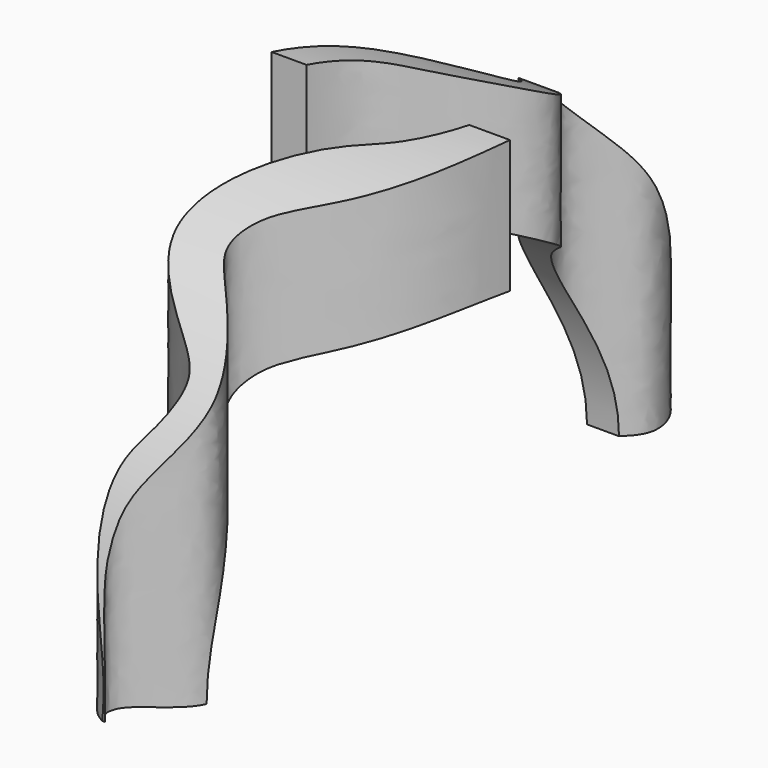
from build123d import *

# Parameters (mm, degrees)
F4_DEPTH      = 4
F4_DEPTH_BACK = 4
F6_DEPTH      = 25


with BuildPart() as f2:
    # F0 (on Front) → F2 (revolve)
    with BuildSketch(Plane.XZ):
        with BuildLine():
            Line((-1.2, 8.35), (0, 8.35))
            Line((0, 8.35), (1.2, 8.35))
            Line((1.2, 8.35), (1.2, 10.35))
            ThreePointArc((1.2, 10.35), (0, 10.5604816468), (-1.2, 10.35))
            Line((-1.2, 10.35), (-1.2, 8.35))
        make_face()
    revolve(axis=Axis((6.4852866344, 0, 0), (1, 0, 0)))

    # F3 (on Right) → F4 (join, two sides)
    with BuildSketch(Plane.YZ) as f4_sk:
        with BuildLine():
            Line((-10.56, 0), (-8.35, 0))
            ThreePointArc((-8.35, 0), (0, 8.35), (8.35, 0))
            Line((8.35, 0), (10.5749638751, 0))
            ThreePointArc((10.5749638751, 0), (7.8224638998, 8.3456350344), (0, 12.35))
            ThreePointArc((0, 12.35), (-7.8128511226, 8.3407415267), (-10.56, 0))
        make_face()
    extrude(amount=F4_DEPTH)
    extrude(f4_sk.sketch, amount=-F4_DEPTH_BACK)

    # F5 (on Top) → F6 (intersect)
    with BuildSketch(Plane.XY):
        with BuildLine():
            Line((3.6758829374, 0), (2.45, 0))
            add(Edge.make_bspline(
                [(2.45, 0), (2.1939526621, -0.6271840622), (1.4059804823, -1.5963899435), (-0.0126221105, -2.1706052776), (-3.2465047599, -5.6799492695), (0.0403019673, -7.4466840306), (0.5065619351, -8.0659636812), (0.0295633168, -8.8104058269), (-0.9105969949, -9.3633604019), (-0.7355682208, -10.3238483121), (0, -10.6277363375)],
                knots=[0, 0, 0, 0, 0.1331463011, 0.2618433906, 0.4527370422, 0.6194243751, 0.7001596379, 0.7857129801, 0.8843102908, 1, 1, 1, 1], degree=3))
            add(Edge.make_bspline(
                [(3.6758829374, 0), (3.2737191761, -1.7936892274), (1.87129079, -3.5124244797), (-0.0251571362, -4.453726729), (-0.580878273, -5.4768519331), (-0.0334890668, -6.1458236561), (2.1258335797, -8.2415100232), (-0.0758519978, -9.4522640278), (-0.3692739034, -10.037698177), (-0.3319934495, -10.3414719677), (0, -10.6277363375)],
                knots=[0, 0, 0, 0, 0.2058937932, 0.349281485, 0.4467146912, 0.5395529568, 0.6975120138, 0.8375399716, 0.9154478949, 1, 1, 1, 1], degree=3))
        make_face()
        with BuildLine():
            add(Edge.make_bspline(
                [(-3.5, 0), (-3.239146096, 0.7555679258), (-2.537721163, 2.3692843384), (-0.0517716881, 3.5376573417), (0.7127178318, 4.2789396036), (-0.0604778174, 4.9725411274), (-2.1173365423, 7.3746741283), (0.1165690396, 8.9574551363), (0.328279129, 9.663355776), (0.0303479735, 10.3581053627), (0, 10.501274839)],
                knots=[0, 0, 0, 0, 0.1551989172, 0.3166700923, 0.4029626846, 0.4943864043, 0.6545414812, 0.7983360114, 0.8820595189, 0.9701437354, 0.9701437354, 0.9701437354, 0.9701437354], degree=3))
            Line((-3.5, 0), (-2.45, 0))
            add(Edge.make_bspline(
                [(-2.45, 0), (-2.1147143501, 0.9166891369), (-1.4224322322, 1.7321047146), (-0.013637705, 2.2327922995), (2.4369749806, 4.4013481826), (-0.1465893108, 6.0310795639), (-0.6936729304, 7.2695294763), (-0.033584851, 8.1369076231), (1.0817559539, 8.9445042763), (0.5331608207, 10.1768583185), (0, 10.501274839)],
                knots=[0, 0, 0, 0, 0.1382546534, 0.2589952094, 0.4122774587, 0.5634423928, 0.6715598526, 0.7674962113, 0.8748458844, 1, 1, 1, 1], degree=3))
        make_face()
    extrude(amount=F6_DEPTH, mode=Mode.INTERSECT)


solid = f2.part
